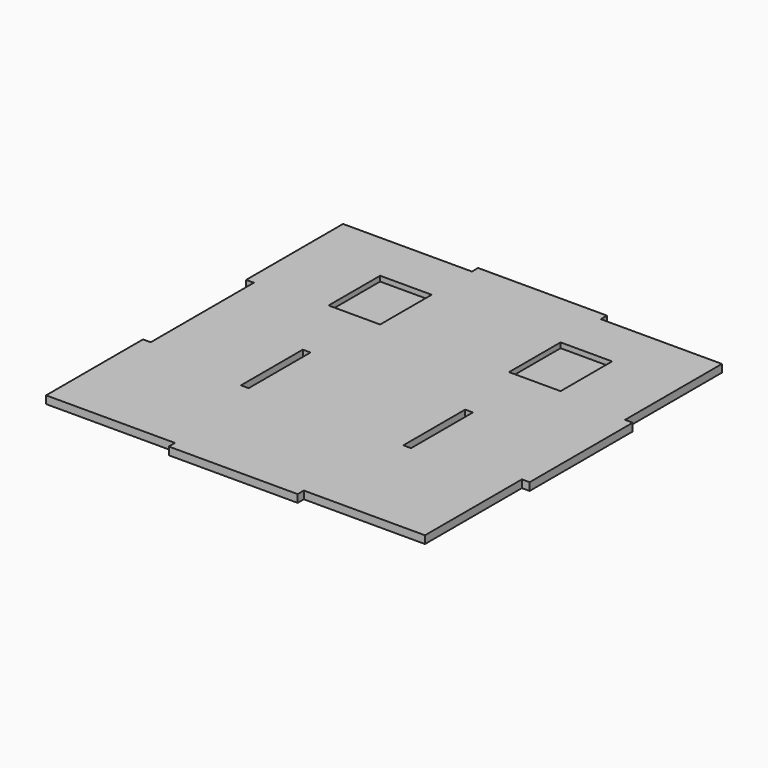
from build123d import *

# Parameters (mm, degrees)
F0_W     = 3
F0_H     = 30
F1_DEPTH = 3
F2_W     = 20
F2_H     = 25
F3_DEPTH = 1


with BuildPart() as f1:
    # F0 (on Top) → F1 (new body)
    with BuildSketch(Plane.XY):
        Polygon((25, 72), (25, 75), (-25, 75), (-25, 72), (-75, 72), (-75, 25), (-72, 25), (-72, -25), (-75, -25), (-75, -72), (-25, -72), (-25, -75), (25, -75), (25, -72), (72, -72), (72, -25), (75, -25), (75, 25), (72, 25), (72, 72), align=None)
        with Locations((-31.5, -15)):
            Rectangle(F0_W, F0_H, mode=Mode.SUBTRACT)
        with Locations((31.5, -15)):
            Rectangle(F0_W, F0_H, mode=Mode.SUBTRACT)
        Polygon((-25, 52.5), (-25, 40), (-25, 27.5), (-45, 27.5), (-45, 52.5), align=None, mode=Mode.SUBTRACT)
        Polygon((25, 27.5), (25, 40), (25, 52.5), (45, 52.5), (45, 27.5), align=None, mode=Mode.SUBTRACT)
    extrude(amount=-F1_DEPTH)


with BuildPart() as f3:
    # F2 (on face) → F3 (new body)
    with BuildSketch(Plane(origin=(0, 0, -3), x_dir=(1, 0, 0), z_dir=(0, 0, -1))):
        with Locations((-35, -40)):
            Rectangle(F2_W, F2_H)
        with Locations((35, -40)):
            Rectangle(F2_W, F2_H)
    extrude(amount=-F3_DEPTH)


solid = Compound([f1.part, f3.part])
